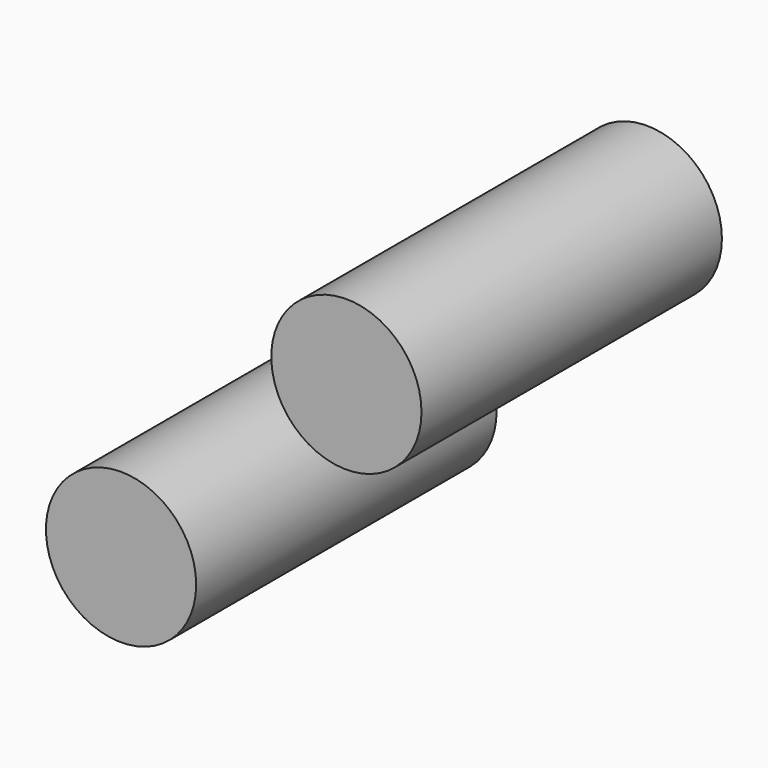
from build123d import *

# Parameters (mm, degrees)
CYLINDER004_R     = 2
CYLINDER004_DEPTH = 10
CYLINDER003_R     = 2
CYLINDER003_DEPTH = 10


with BuildPart() as cilindre004:
    # Cylinder004 → Cylinder004 (new body)
    with BuildSketch(Plane(origin=(7, 10, 7), x_dir=(1, 0, 0), z_dir=(0, -1, 0))):
        Circle(CYLINDER004_R)
    extrude(amount=CYLINDER004_DEPTH)


with BuildPart() as fusion:
    # Cylinder003 → Cylinder003 (new body)
    with BuildSketch(Plane(origin=(13, 10, 13), x_dir=(1, 0, 0), z_dir=(0, -1, 0))):
        Circle(CYLINDER003_R)
    extrude(amount=CYLINDER003_DEPTH)

    # Fusion: union Cilindre004
    add(cilindre004.part)


solid = fusion.part
